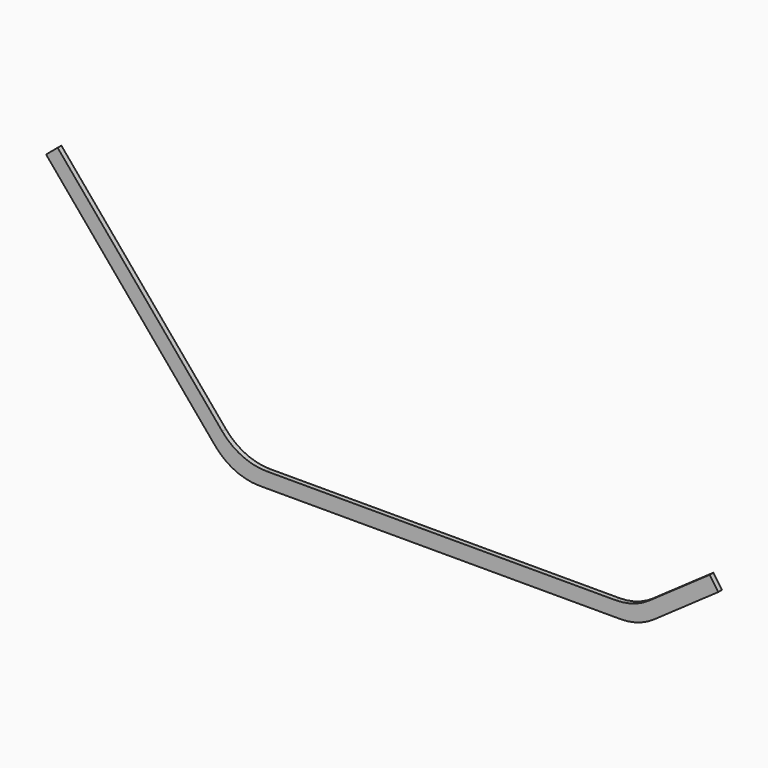
from build123d import *

# Parameters (mm, degrees)
F1_DEPTH = 4


with BuildPart() as f1:
    # F0 (on Front) → F1 (new body)
    with BuildSketch(Plane.XZ):
        with BuildLine():
            ThreePointArc((-26.156867, 4.884096), (-8.985558, -8.291913), (12.145355, -12.976524))
            Line((12.145355, -12.976524), (323.065033, -12.976524))
            ThreePointArc((323.065033, -12.976524), (338.100323, -10.662371), (351.743855, -3.934126))
            Line((351.743855, -3.934126), (407.221116, 34.911471))
            Line((407.221116, 34.911471), (399.764622, 45.560447))
            Line((399.764622, 45.560447), (347.64497, 9.065874))
            ThreePointArc((347.64497, 9.065874), (334.001439, 2.337629), (318.966149, 0.023476))
            Line((318.966149, 0.023476), (18.207355, 0.023476))
            ThreePointArc((18.207355, 0.023476), (-2.923558, 4.708087), (-20.094867, 17.884096))
            Line((-20.094867, 17.884096), (-161.908352, 186.890826))
            Line((-161.908352, 186.890826), (-171.86693, 178.534587))
            Line((-171.86693, 178.534587), (-26.156867, 4.884096))
        make_face()
    extrude(amount=F1_DEPTH)


solid = f1.part
